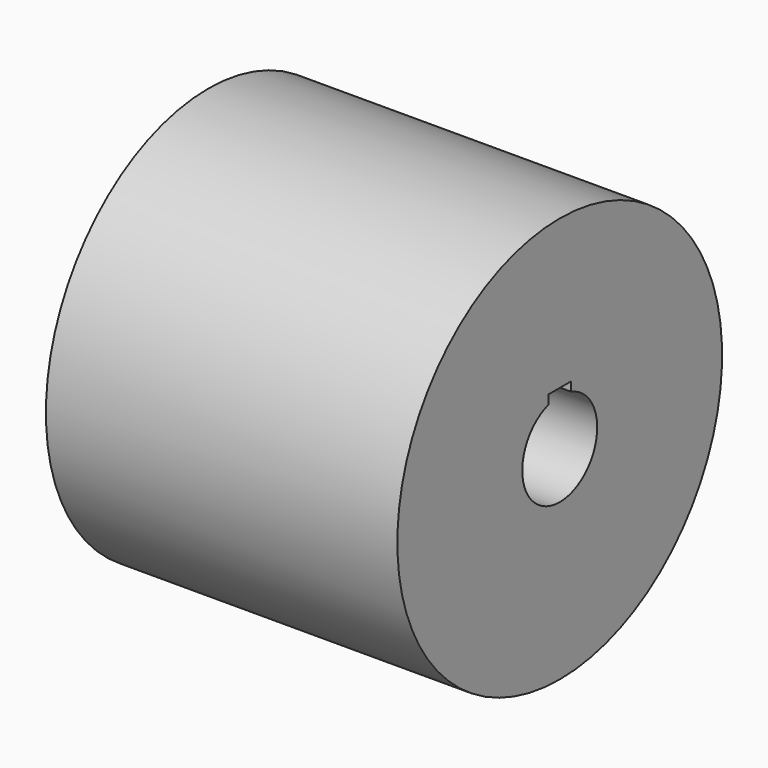
from build123d import *

# Parameters (mm, degrees)
F5_DEPTH = 225.107391404


with BuildPart() as f1:
    # F0 (on Front) → F1 (revolve)
    with BuildSketch(Plane.XZ):
        Polygon((28, 0), (0, 0), (0, -130), (225.106391404, -130), (225.106391404, 0), align=None)
    revolve(axis=Axis((88.4175841547, 0, 0), (1, 0, 0)))

    # F2 (on Front) → F3 (revolve, cut)
    with BuildSketch(Plane.XZ):
        Polygon((28, 0), (0, 0), (0, -105), (43, -65), (43, -50), (28, -50), align=None)
    revolve(axis=Axis((88.4175841547, 0, 0), (1, 0, 0)), mode=Mode.SUBTRACT)

    # F4 (on Right) → F5 (cut, through all)
    with BuildSketch(Plane.YZ):
        with BuildLine():
            Line((0, 30), (0, 24.4))
            Line((0, 24.4), (9, 24.4))
            Line((9, 24.4), (9, 28.6181760425))
            ThreePointArc((9, 28.6181760425), (4.5527309785, 29.6525317745), (0, 30))
        make_face()
        with BuildLine():
            ThreePointArc((0, 30), (-4.5527309785, 29.6525317745), (-9, 28.6181760425))
            Line((-9, 28.6181760425), (-9, 24.4))
            Line((-9, 24.4), (0, 24.4))
            Line((0, 24.4), (0, 30))
        make_face()
        with BuildLine():
            ThreePointArc((-9, 28.6181760425), (-29.6525317745, -4.5527309785), (0, -30))
            Line((0, -30), (0, 24.4))
            Line((0, 24.4), (-9, 24.4))
            Line((-9, 24.4), (-9, 28.6181760425))
        make_face()
        with BuildLine():
            Line((0, 24.4), (0, -30))
            ThreePointArc((0, -30), (21.2132034356, -21.2132034356), (30, 0))
            ThreePointArc((30, 0), (24.1867732449, 17.7482393493), (9, 28.6181760425))
            Line((9, 28.6181760425), (9, 24.4))
            Line((9, 24.4), (0, 24.4))
        make_face()
        with BuildLine():
            Line((-9, 34.4), (-9, 28.6181760425))
            ThreePointArc((-9, 28.6181760425), (-4.5527309785, 29.6525317745), (0, 30))
            Line((0, 30), (0, 34.4))
            Line((0, 34.4), (-9, 34.4))
        make_face()
        with BuildLine():
            ThreePointArc((0, 30), (4.5527309785, 29.6525317745), (9, 28.6181760425))
            Line((9, 28.6181760425), (9, 34.4))
            Line((9, 34.4), (0, 34.4))
            Line((0, 34.4), (0, 30))
        make_face()
    extrude(amount=F5_DEPTH, mode=Mode.SUBTRACT)


solid = f1.part
